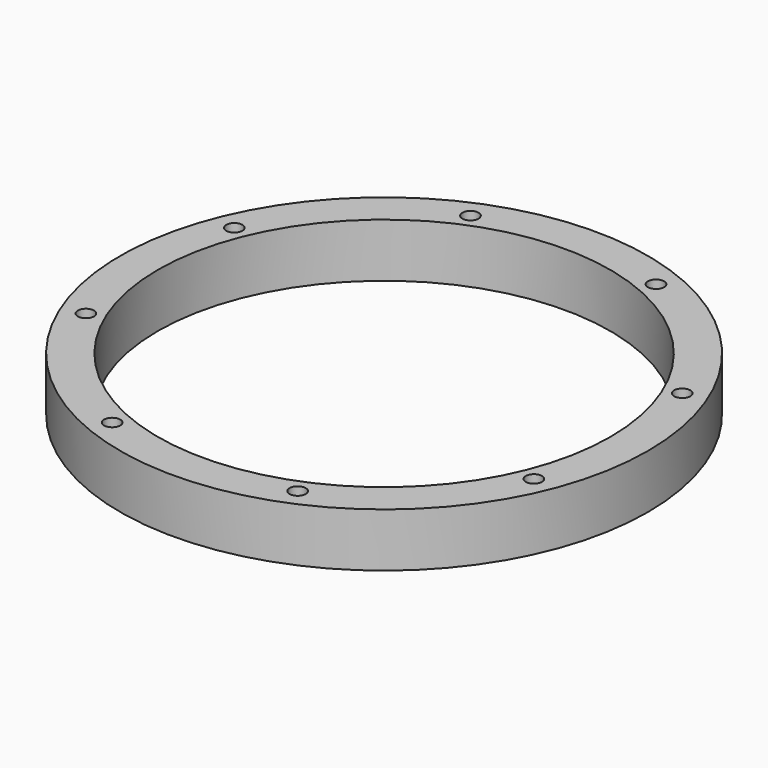
from build123d import *

# Parameters (mm, degrees)
CYLINDER662_R               = 1.5
CYLINDER662_DEPTH           = 20
CYLINDER662_PLACEMENT_ANGLE = 45
CYLINDER664_R               = 1.5
CYLINDER664_DEPTH           = 20
CYLINDER661_R               = 1.5
CYLINDER661_DEPTH           = 20
CYLINDER661_PLACEMENT_ANGLE = 135
CYLINDER663_R               = 1.5
CYLINDER663_DEPTH           = 20
CYLINDER667_R               = 1.5
CYLINDER667_DEPTH           = 20
CYLINDER667_PLACEMENT_ANGLE = 225
CYLINDER665_R               = 1.5
CYLINDER665_DEPTH           = 20
CYLINDER666_R               = 1.5
CYLINDER666_DEPTH           = 20
CYLINDER666_PLACEMENT_ANGLE = 45
CYLINDER660_R               = 1.5
CYLINDER660_DEPTH           = 20
COMPOUND661_PLACEMENT_ANGLE = 22.5
TUBE041_R                   = 49
TUBE041_R_2                 = 42
TUBE041_DEPTH               = 10


with BuildPart() as obj1:
    # Cylinder662 → Cylinder662 (new body)
    with BuildSketch(Plane.XY):
        Circle(CYLINDER662_R)
    extrude(amount=CYLINDER662_DEPTH)


with BuildPart() as obj1_1:
    # Cylinder662 placement: moved
    add(obj1.part.moved(Location((-31.819805, 31.819805, -18))).rotate(Axis((-31.819805, 31.819805, -18), (0, 0, 1)), CYLINDER662_PLACEMENT_ANGLE))


with BuildPart() as obj2:
    # Cylinder664 → Cylinder664 (new body)
    with BuildSketch(Plane(origin=(-45, 0, -18), x_dir=(0, 1, 0), z_dir=(0, 0, 1))):
        Circle(CYLINDER664_R)
    extrude(amount=CYLINDER664_DEPTH)


with BuildPart() as obj3:
    # Cylinder661 → Cylinder661 (new body)
    with BuildSketch(Plane.XY):
        Circle(CYLINDER661_R)
    extrude(amount=CYLINDER661_DEPTH)


with BuildPart() as obj3_1:
    # Cylinder661 placement: moved
    add(obj3.part.moved(Location((-31.819805, -31.819805, -18))).rotate(Axis((-31.819805, -31.819805, -18), (0, 0, 1)), CYLINDER661_PLACEMENT_ANGLE))


with BuildPart() as obj4:
    # Cylinder663 → Cylinder663 (new body)
    with BuildSketch(Plane(origin=(0, -45, -18), x_dir=(-1, 0, 0), z_dir=(0, 0, 1))):
        Circle(CYLINDER663_R)
    extrude(amount=CYLINDER663_DEPTH)


with BuildPart() as obj5:
    # Cylinder667 → Cylinder667 (new body)
    with BuildSketch(Plane.XY):
        Circle(CYLINDER667_R)
    extrude(amount=CYLINDER667_DEPTH)


with BuildPart() as obj5_1:
    # Cylinder667 placement: moved
    add(obj5.part.moved(Location((31.819805, -31.819805, -18))).rotate(Axis((31.819805, -31.819805, -18), (0, 0, 1)), CYLINDER667_PLACEMENT_ANGLE))


with BuildPart() as obj6:
    # Cylinder665 → Cylinder665 (new body)
    with BuildSketch(Plane(origin=(45, 0, -18), x_dir=(0, -1, 0), z_dir=(0, 0, 1))):
        Circle(CYLINDER665_R)
    extrude(amount=CYLINDER665_DEPTH)


with BuildPart() as obj7:
    # Cylinder666 → Cylinder666 (new body)
    with BuildSketch(Plane.XY):
        Circle(CYLINDER666_R)
    extrude(amount=CYLINDER666_DEPTH)


with BuildPart() as obj7_1:
    # Cylinder666 placement: moved
    add(obj7.part.moved(Location((31.819805, 31.819805, -18))).rotate(Axis((31.819805, 31.819805, -18), (0, 0, -1)), CYLINDER666_PLACEMENT_ANGLE))


with BuildPart() as compound661:
    # Cylinder660 → Cylinder660 (new body)
    with BuildSketch(Plane(origin=(0, 45, -18), x_dir=(1, 0, 0), z_dir=(0, 0, 1))):
        Circle(CYLINDER660_R)
    extrude(amount=CYLINDER660_DEPTH)

    # Compound661: union obj1, obj2, obj3, obj4, obj5, obj6, obj7
    add(obj1_1.part)
    add(obj2.part)
    add(obj3_1.part)
    add(obj4.part)
    add(obj5_1.part)
    add(obj6.part)
    add(obj7_1.part)


with BuildPart() as compound661_1:
    # Compound661 placement: moved
    add(compound661.part.moved(Location((0, 0, -8))).rotate(Axis((0, 0, -8), (0, 0, 1)), COMPOUND661_PLACEMENT_ANGLE))


with BuildPart() as cut291:
    # Tube041 → Tube041 (new body)
    with BuildSketch(Plane.XY.offset(-22)):
        Circle(TUBE041_R)
        Circle(TUBE041_R_2, mode=Mode.SUBTRACT)
    extrude(amount=TUBE041_DEPTH)

    # Cut291: cut Compound661
    add(compound661_1.part, mode=Mode.SUBTRACT)


with BuildPart() as cut291_1:
    # Cut291 placement: moved
    add(cut291.part.moved(Location((0, 0, -10))))


solid = cut291_1.part
